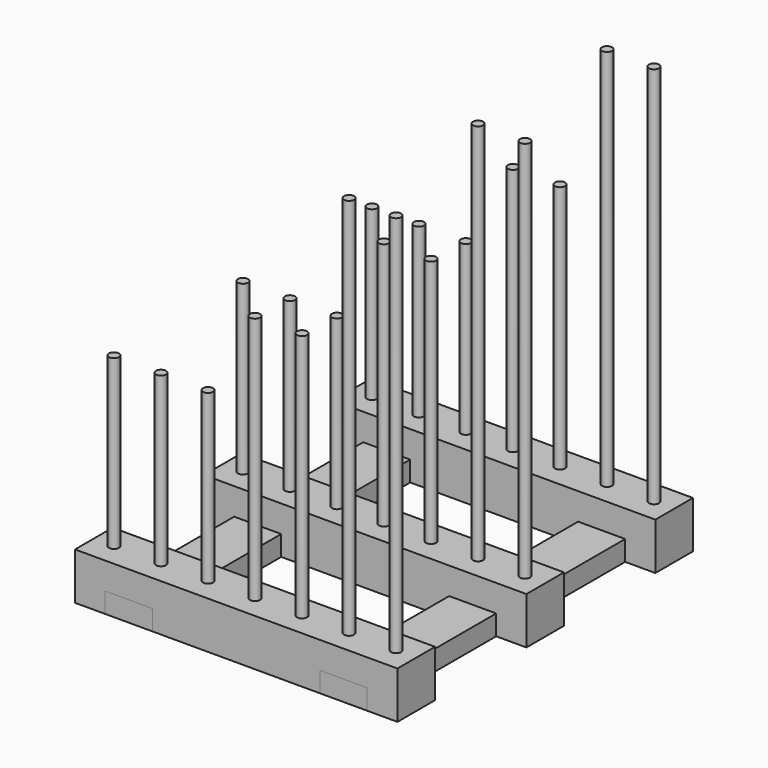
from build123d import *

# Parameters (mm, degrees)
F0_W     = 24
F0_H     = 3.5
F0_R     = 0.375
F1_DEPTH = 3.5
F2_DEPTH = 16
F3_DEPTH = 22
F4_DEPTH = 32
F6_DEPTH = 27.5


with BuildPart() as f1:
    # F0 (on Top) → F1 (new body)
    with BuildSketch(Plane.XY):
        with Locations((0, 12)):
            Rectangle(F0_W, F0_H)
        with Locations((-10.5, 12)):
            Circle(F0_R, mode=Mode.SUBTRACT)
        with Locations((-7, 12)):
            Circle(F0_R, mode=Mode.SUBTRACT)
        with Locations((-3.5, 12)):
            Circle(F0_R, mode=Mode.SUBTRACT)
        with Locations((0, 12)):
            Circle(F0_R, mode=Mode.SUBTRACT)
        with Locations((3.5, 12)):
            Circle(F0_R, mode=Mode.SUBTRACT)
        with Locations((7, 12)):
            Circle(F0_R, mode=Mode.SUBTRACT)
        with Locations((10.5, 12)):
            Circle(F0_R, mode=Mode.SUBTRACT)
        Rectangle(F0_W, F0_H)
        with Locations((-10.5, 0)):
            Circle(F0_R, mode=Mode.SUBTRACT)
        with Locations((-7, 0)):
            Circle(F0_R, mode=Mode.SUBTRACT)
        with Locations((-3.5, 0)):
            Circle(F0_R, mode=Mode.SUBTRACT)
        Circle(F0_R, mode=Mode.SUBTRACT)
        with Locations((3.5, 0)):
            Circle(F0_R, mode=Mode.SUBTRACT)
        with Locations((7, 0)):
            Circle(F0_R, mode=Mode.SUBTRACT)
        with Locations((10.5, 0)):
            Circle(F0_R, mode=Mode.SUBTRACT)
        with Locations((0, -12)):
            Rectangle(F0_W, F0_H)
        with Locations((-10.5, -12)):
            Circle(F0_R, mode=Mode.SUBTRACT)
        with Locations((-7, -12)):
            Circle(F0_R, mode=Mode.SUBTRACT)
        with Locations((-3.5, -12)):
            Circle(F0_R, mode=Mode.SUBTRACT)
        with Locations((0, -12)):
            Circle(F0_R, mode=Mode.SUBTRACT)
        with Locations((3.5, -12)):
            Circle(F0_R, mode=Mode.SUBTRACT)
        with Locations((7, -12)):
            Circle(F0_R, mode=Mode.SUBTRACT)
        with Locations((10.5, -12)):
            Circle(F0_R, mode=Mode.SUBTRACT)
    extrude(amount=F1_DEPTH)


with BuildPart() as f2:
    # F0 (on Top) → F2 (new body)
    with BuildSketch(Plane.XY):
        with Locations((-10.5, 12)):
            Circle(F0_R)
        with Locations((-7, 12)):
            Circle(F0_R)
        with Locations((-3.5, 12)):
            Circle(F0_R)
        with Locations((-10.5, 0)):
            Circle(F0_R)
        with Locations((-7, 0)):
            Circle(F0_R)
        with Locations((-3.5, 0)):
            Circle(F0_R)
        with Locations((-3.5, -12)):
            Circle(F0_R)
        with Locations((-7, -12)):
            Circle(F0_R)
        with Locations((-10.5, -12)):
            Circle(F0_R)
    extrude(amount=F2_DEPTH)


with BuildPart() as f3:
    # F0 (on Top) → F3 (new body)
    with BuildSketch(Plane.XY):
        with Locations((0, 12)):
            Circle(F0_R)
        with Locations((3.5, 12)):
            Circle(F0_R)
        Circle(F0_R)
        with Locations((3.5, 0)):
            Circle(F0_R)
        with Locations((0, -12)):
            Circle(F0_R)
        with Locations((3.5, -12)):
            Circle(F0_R)
    extrude(amount=F3_DEPTH)


with BuildPart() as f4:
    # F0 (on Top) → F4 (new body)
    with BuildSketch(Plane.XY):
        with Locations((7, 12)):
            Circle(F0_R)
        with Locations((10.5, 12)):
            Circle(F0_R)
        with Locations((7, 0)):
            Circle(F0_R)
        with Locations((10.5, 0)):
            Circle(F0_R)
        with Locations((7, -12)):
            Circle(F0_R)
        with Locations((10.5, -12)):
            Circle(F0_R)
    extrude(amount=F4_DEPTH)


with BuildPart() as f6:
    # F5 (on face) → F6 (new body)
    with BuildSketch(Plane.XZ.offset(13.75)):
        Polygon((-8, 0), (-6.25, 0), (-6.25, 1.5), (-9.75, 1.5), (-9.75, 0), align=None)
        Polygon((6.25, 1.5), (6.25, 0), (8, 0), (9.75, 0), (9.75, 1.5), align=None)
    extrude(amount=-F6_DEPTH)


solid = Compound([f1.part, f2.part, f3.part, f4.part, f6.part])
